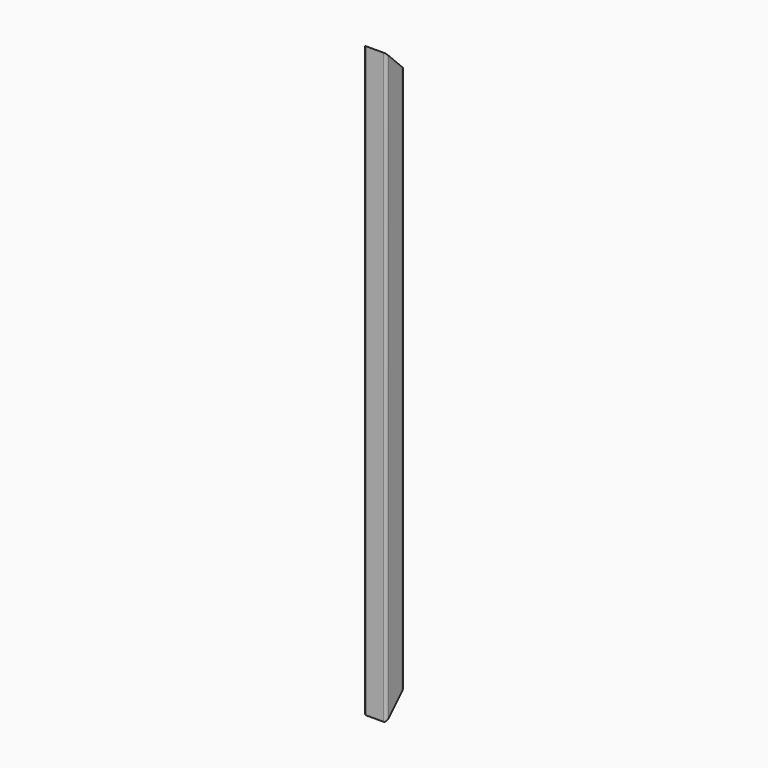
from build123d import *

# Parameters (mm, degrees)
F0_W     = 21
F0_H     = 21
F1_DEPTH = 680
F3_DEPTH = 12.5


with BuildPart() as f1:
    # F0 (on Top) → F1 (new body)
    with BuildSketch(Plane.XY):
        with BuildLine():
            ThreePointArc((12.5, 9.5), (11.62132, 11.62132), (9.5, 12.5))
            Line((9.5, 12.5), (-9.5, 12.5))
            ThreePointArc((-9.5, 12.5), (-11.62132, 11.62132), (-12.5, 9.5))
            Line((-12.5, 9.5), (-12.5, -9.5))
            ThreePointArc((-12.5, -9.5), (-11.62132, -11.62132), (-9.5, -12.5))
            Line((-9.5, -12.5), (9.5, -12.5))
            ThreePointArc((9.5, -12.5), (11.62132, -11.62132), (12.5, -9.5))
            Line((12.5, -9.5), (12.5, 9.5))
        make_face()
        Rectangle(F0_W, F0_H, mode=Mode.SUBTRACT)
    extrude(amount=F1_DEPTH)

    # F2 (on Right) → F3 (cut, symmetric)
    with BuildSketch(Plane.YZ):
        Polygon((12.5, 25), (-12.5, 0), (12.5, 0), align=None)
        Polygon((-12.5, 650.5), (12.5, 625.5), (12.5, 680), (-12.5, 680), align=None)
    extrude(amount=F3_DEPTH, both=True, mode=Mode.SUBTRACT)


solid = f1.part
